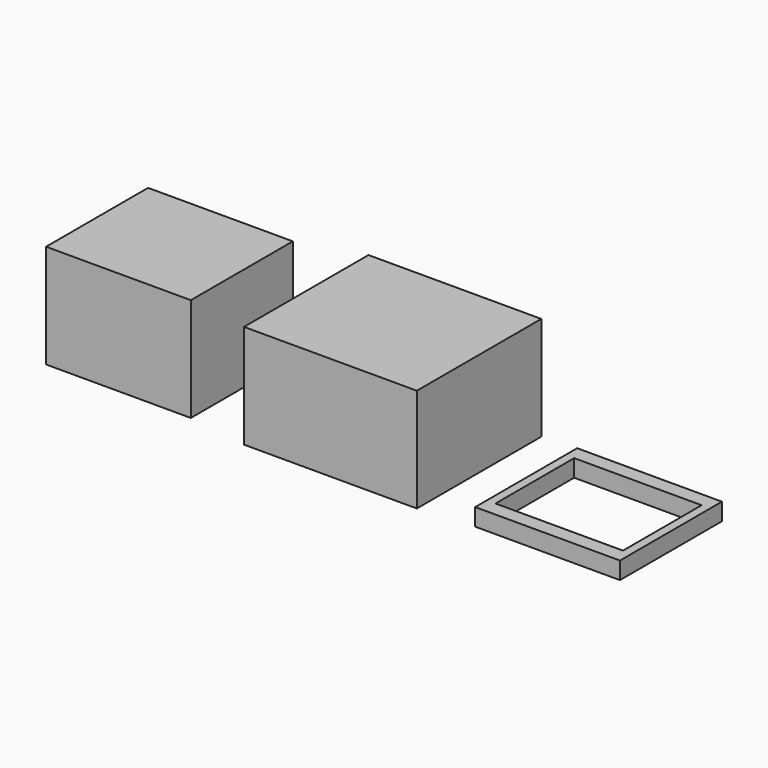
from build123d import *

# Parameters (mm, degrees)
F0_W     = 1016
F0_H     = 914.4
F1_DEPTH = 609.6
F2_W     = 850.9
F2_H     = 749.3
F3_DEPTH = 609.6
F4_W     = 850.9
F4_H     = 749.3
F4_W_2   = 749.3
F4_H_2   = 577.85
F5_DEPTH = 101.6


with BuildPart() as f1:
    # F0 (on Top) → F1 (new body)
    with BuildSketch(Plane.XY):
        with Locations((-64.1343, -61.316494)):
            Rectangle(F0_W, F0_H)
    extrude(amount=F1_DEPTH)


with BuildPart() as f3:
    # F2 (on Top) → F3 (new body)
    with BuildSketch(Plane.XY):
        with Locations((-1353.928777, -89.16247)):
            Rectangle(F2_W, F2_H)
    extrude(amount=F3_DEPTH)


with BuildPart() as f5:
    # F4 (on Top) → F5 (new body)
    with BuildSketch(Plane.XY):
        with Locations((1191.269279, -117.626861)):
            Rectangle(F4_W, F4_H)
        with Locations((1191.269279, -117.626861)):
            Rectangle(F4_W_2, F4_H_2, mode=Mode.SUBTRACT)
    extrude(amount=F5_DEPTH)


solid = Compound([f1.part, f3.part, f5.part])
